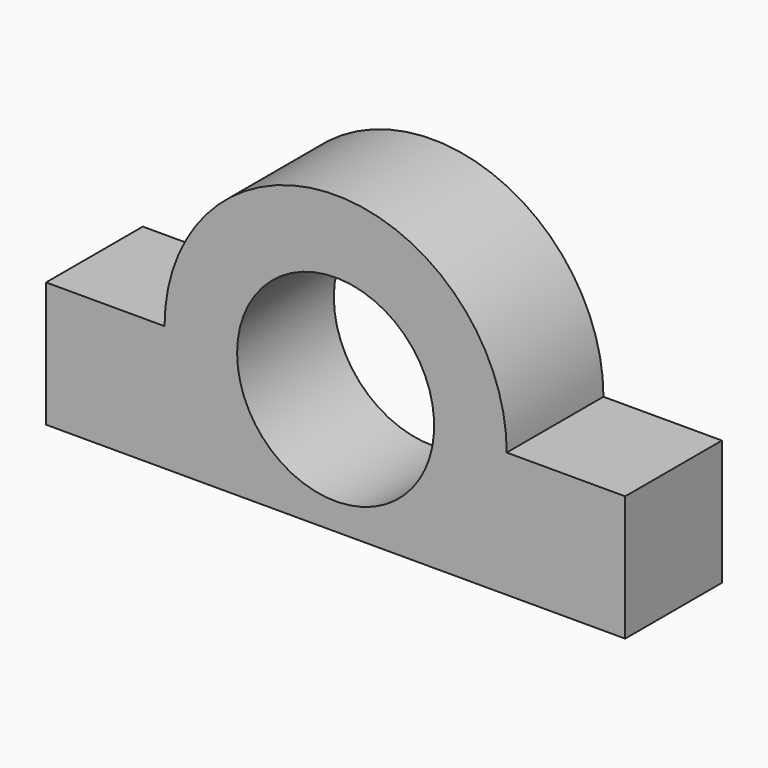
from build123d import *

# Parameters (mm, degrees)
F1_DEPTH = 2.54


with BuildPart() as f1:
    # F0 (on Front) → F1 (new body)
    with BuildSketch(Plane.XZ):
        with BuildLine():
            Line((6.083285, -1.316122), (6.083285, 1.316122))
            Line((6.083285, 1.316122), (3.594506, 1.316122))
            ThreePointArc((3.594506, 1.316122), (3.295386, -0.119464), (2.447808, -1.316122))
            Line((2.447808, -1.316122), (6.083285, -1.316122))
        make_face()
        with BuildLine():
            ThreePointArc((2.447808, -1.316122), (3.295386, -0.119464), (3.594506, 1.316122))
            Line((3.594506, 1.316122), (2.0701, 1.316122))
            ThreePointArc((2.0701, 1.316122), (0, -0.753978), (-2.0701, 1.316122))
            Line((-2.0701, 1.316122), (-3.594506, 1.316122))
            ThreePointArc((-3.594506, 1.316122), (-3.295386, -0.119464), (-2.447808, -1.316122))
            Line((-2.447808, -1.316122), (2.447808, -1.316122))
        make_face()
        with BuildLine():
            Line((2.0701, 1.316122), (3.594506, 1.316122))
            ThreePointArc((3.594506, 1.316122), (0, 4.910627), (-3.594506, 1.316122))
            Line((-3.594506, 1.316122), (-2.0701, 1.316122))
            ThreePointArc((-2.0701, 1.316122), (0, 3.386222), (2.0701, 1.316122))
        make_face()
        with BuildLine():
            ThreePointArc((-2.447808, -1.316122), (-3.295386, -0.119464), (-3.594506, 1.316122))
            Line((-3.594506, 1.316122), (-6.083285, 1.316122))
            Line((-6.083285, 1.316122), (-6.083285, -1.316122))
            Line((-6.083285, -1.316122), (-2.447808, -1.316122))
        make_face()
    extrude(amount=F1_DEPTH)


solid = f1.part
